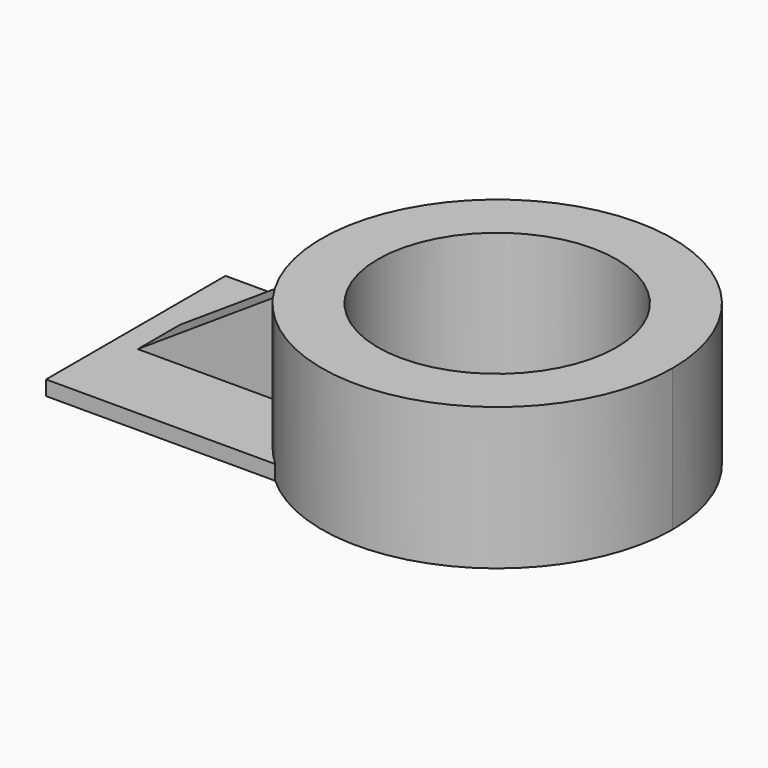
from build123d import *

# Parameters (mm, degrees)
F0_R     = 39.044747
F1_DEPTH = 46.482
F2_DEPTH = 4.826
F4_DEPTH = 17.272


with BuildPart() as f1:
    # F0 (on Top) → F1 (new body)
    with BuildSketch(Plane.XY):
        with BuildLine():
            ThreePointArc((94.580177, 15.791448), (53.288747, 70.909251), (-11.212295, 46.772763))
            ThreePointArc((-11.212295, 46.772763), (-19.796801, 8.317612), (-1.579646, -26.61987))
            ThreePointArc((-1.579646, -26.61987), (60.324089, -36.757176), (94.580177, 15.791448))
        make_face()
        with Locations((37.147503, 15.791448)):
            Circle(F0_R, mode=Mode.SUBTRACT)
    extrude(amount=F1_DEPTH)

    # F0 (on Top) → F2 (join)
    with BuildSketch(Plane.XY):
        with BuildLine():
            Line((-11.212295, 46.772763), (-76.550923, 46.772763))
            Line((-76.550923, 46.772763), (-76.550923, -26.61987))
            Line((-76.550923, -26.61987), (-1.579646, -26.61987))
            ThreePointArc((-1.579646, -26.61987), (-19.796801, 8.317612), (-11.212295, 46.772763))
        make_face()
    extrude(amount=F2_DEPTH)


with BuildPart() as f4:
    # F3 (on Front) → F4 (new body)
    with BuildSketch(Plane.XZ):
        Polygon((-20.613138, 5.564605), (-20.312348, 36.846712), (-67.837089, 5.564605), align=None)
    extrude(amount=-F4_DEPTH)


solid = Compound([f1.part, f4.part])
